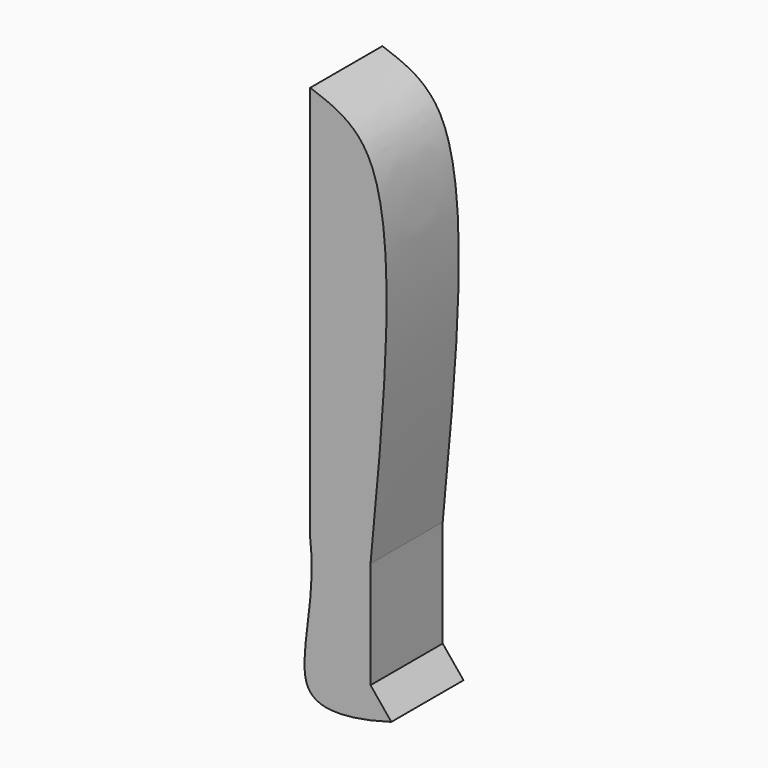
from build123d import *

# Parameters (mm, degrees)
F1_DEPTH = 25.4


with BuildPart() as f1:
    # F0 (on Front) → F1 (new body)
    with BuildSketch(Plane.XZ):
        with BuildLine():
            Line((0, -37.4513999058), (16.9826913625, -38.1512567401))
            add(Edge.make_bspline(
                [(16.9826913625, -38.1512567401), (20.9787122213, 3.8285452105), (26.7746389264, 64.7170800315), (6.3445091518, 72.0058677914), (0, 74.2693766952)],
                knots=[0, 0, 0, 0, 0.6894533113, 1, 1, 1, 1], degree=3))
            add(Edge.make_bspline(
                [(0, 74.2693766952), (0, 24.7281422659), (0, -24.4888391417), (0, -37.4513999058)],
                knots=[0, 0, 0, 0, 0.8288123693, 0.8288123693, 0.8288123693, 0.8288123693], degree=3))
        make_face()
        with BuildLine():
            Line((16.9826913625, -68.2895556092), (16.9826913625, -38.1512567401))
            Line((16.9826913625, -38.1512567401), (0, -37.4513999058))
            add(Edge.make_bspline(
                [(22.8450887205, -75.4871142477), (13.7626473838, -78.1027045536), (-9.7014996157, -82.2945510258), (2.1221999625, -53.5646899875), (0, -37.4513999058)],
                knots=[0, 0, 0, 0, 0.4366191142, 1, 1, 1, 1], degree=3))
            Line((22.8450887205, -75.4871142477), (16.9826913625, -68.2895556092))
        make_face()
    extrude(amount=F1_DEPTH)


solid = f1.part
